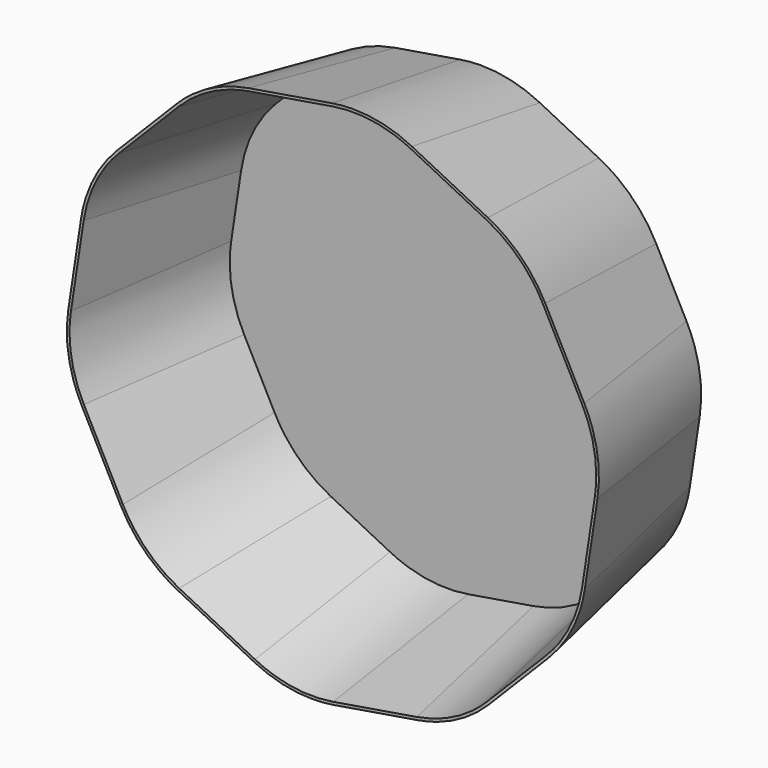
from build123d import *

# Parameters (mm, degrees)
F1_DEPTH = 25
F1_TAPER = -10
F2_R     = 20
F3_T     = -0.4


with BuildPart() as f1:
    # F0 (on Front) → F1 (new body)
    with BuildSketch(Plane.XZ):
        Polygon((16.9340643768, -32.6736002716), (32.9050062436, -16.4799045851), (36.3073541254, 6.0085545216), (25.8415267728, 26.2019500243), (5.5051145143, 36.3870911892), (-16.9340643768, 32.6736002716), (-32.9050062436, 16.4799045851), (-36.3073541254, -6.0085545216), (-25.8415267728, -26.2019500243), (-5.5051145143, -36.3870911892), align=None)
    extrude(amount=F1_DEPTH, taper=F1_TAPER)

    # F2
    f2_edges = [f1.edges().sort_by_distance(p)[0] for p in [
        (-5.851793, -12.5, -38.678529),
        (-27.468869, -12.5, -27.85199),
        (18.000469, -12.5, -34.731185),
        (34.977164, -12.5, -17.517709),
        (38.593771, -12.5, 6.386937),
        (27.468869, -12.5, 27.85199),
        (5.851793, -12.5, 38.678529),
        (-18.000469, -12.5, 34.731185),
        (-34.977164, -12.5, 17.517709),
        (-38.593771, -12.5, -6.386937),
    ]]
    fillet(f2_edges, radius=F2_R)

    # F3
    f3_openings = [f1.faces().sort_by_distance(p)[0] for p in [
        (0, -25, 0),
    ]]
    offset(amount=F3_T, openings=f3_openings, kind=Kind.INTERSECTION)


solid = f1.part
